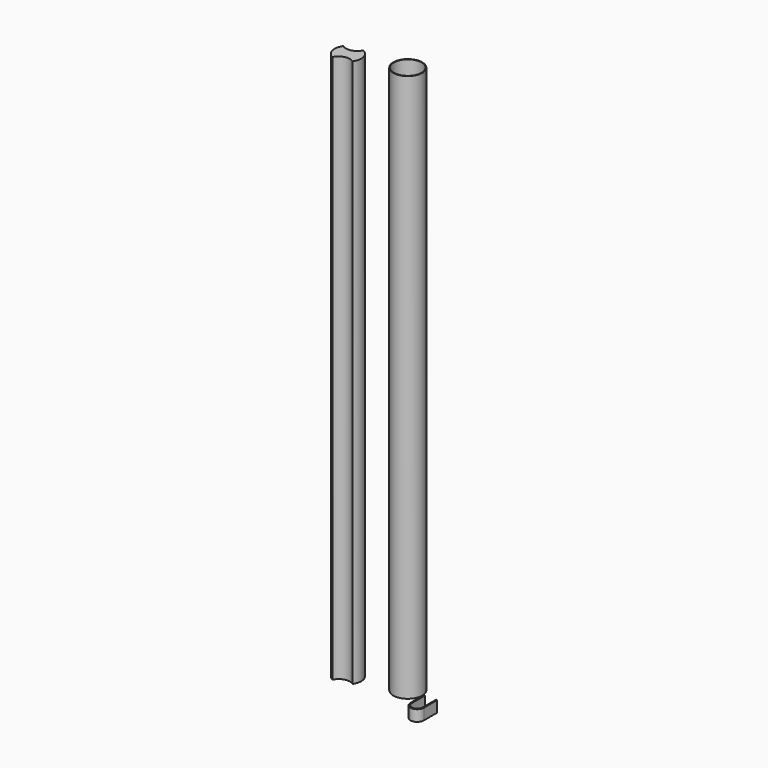
from build123d import *

# Parameters (mm, degrees)
F0_R     = 13
F0_R_2   = 12.5
F1_DEPTH = 492
F3_DEPTH = 10


with BuildPart() as f1:
    # F0 (on Top) → F1 (new body)
    with BuildSketch(Plane.XY):
        Circle(F0_R)
        Circle(F0_R_2, mode=Mode.SUBTRACT)
        with BuildLine():
            ThreePointArc((-40.707102, 1.045649), (-47.315235, -4.388311), (-55.707102, -2.723407))
            ThreePointArc((-55.707102, -2.723407), (-57.609184, -12.662559), (-51.234821, -20.522084))
            ThreePointArc((-51.234821, -20.522084), (-44.626688, -15.088124), (-36.234821, -16.753028))
            ThreePointArc((-36.234821, -16.753028), (-34.332739, -6.813876), (-40.707102, 1.045649))
        make_face()
    extrude(amount=F1_DEPTH)


with BuildPart() as f3:
    # F2 (on Top) → F3 (new body)
    with BuildSketch(Plane.XY):
        with BuildLine():
            Line((26.410824, -28.743751), (26.410824, -13.743751))
            Line((26.410824, -13.743751), (25.410824, -13.743751))
            Line((25.410824, -13.743751), (25.410824, -28.743751))
            ThreePointArc((25.410824, -28.743751), (31.410824, -34.743751), (37.410824, -28.743751))
            Line((37.410824, -28.743751), (37.410824, -13.743751))
            Line((37.410824, -13.743751), (36.410824, -13.743751))
            Line((36.410824, -13.743751), (36.410824, -28.743751))
            ThreePointArc((36.410824, -28.743751), (31.410824, -33.743751), (26.410824, -28.743751))
        make_face()
    extrude(amount=F3_DEPTH)


solid = Compound([f1.part, f3.part])
